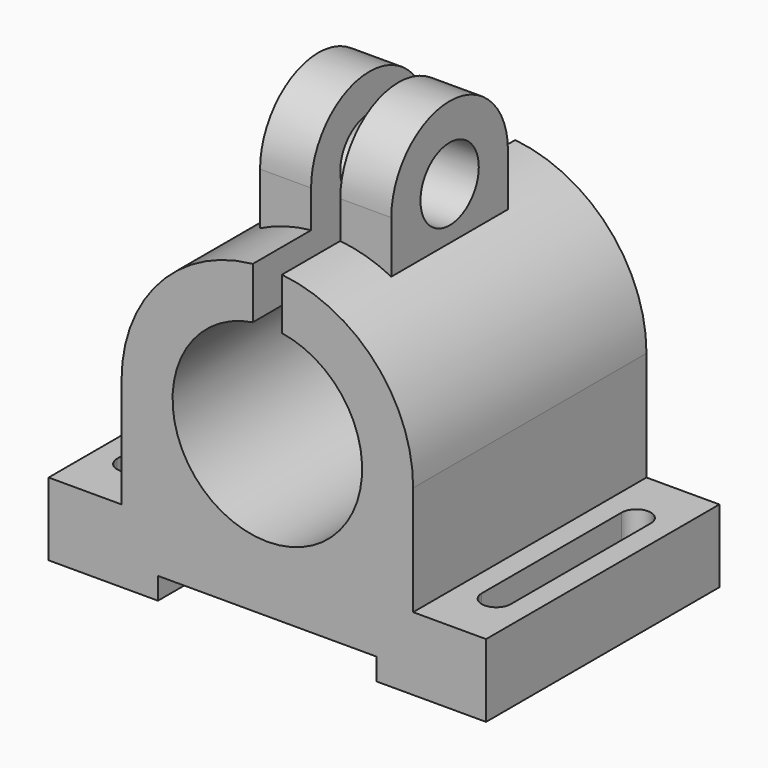
from build123d import *

# Parameters (mm, degrees)
SKETCH_W        = 60
SKETCH_H        = 40
PAD_DEPTH       = 10
PAD001_DEPTH    = 20
PAD002_DEPTH    = 9
SKETCH003_R     = 5
POCKET_DEPTH    = 39.001
POCKET001_DEPTH = 40.001
POCKET002_DEPTH = 197.61763
SKETCH006_W     = 30
SKETCH006_H     = 3
POCKET003_DEPTH = 40.001


with BuildPart() as part:
    # Sketch → Pad (new body)
    with BuildSketch(Plane.XY):
        Rectangle(SKETCH_W, SKETCH_H)
    extrude(amount=PAD_DEPTH)

    # Sketch001 → Pad001 (join, symmetric)
    with BuildSketch(Plane.XZ):
        with BuildLine():
            Line((20, 25), (20, 10))
            Line((20, 10), (-20, 10))
            Line((-20, 10), (-20, 25))
            ThreePointArc((20, 25), (0, 45), (-20, 25))
        make_face()
    extrude(amount=PAD001_DEPTH, both=True)

    # Sketch002 → Pad002 (join, symmetric)
    with BuildSketch(Plane.YZ):
        with BuildLine():
            Line((-10, 23), (-10, 50))
            ThreePointArc((10, 50), (0, 60), (-10, 50))
            Line((10, 50), (10, 23))
            Line((10, 23), (-10, 23))
        make_face()
    extrude(amount=PAD002_DEPTH, both=True)

    # Sketch003 (on Face15 of Pad002) → Pocket (cut, through all)
    with BuildSketch(Plane.YZ.offset(9)):
        with Locations((0, 50)):
            Circle(SKETCH003_R)
    extrude(amount=-POCKET_DEPTH, mode=Mode.SUBTRACT)

    # Sketch004 (on Face12 of Pocket) → Pocket001 (cut, through all)
    with BuildSketch(Plane.XZ.offset(20)):
        with BuildLine():
            ThreePointArc((-2, 37.845233), (0, 12), (2, 37.845233))
            Line((2, 70), (2, 37.845233))
            Line((-2, 70), (2, 70))
            Line((-2, 37.845233), (-2, 70))
        make_face()
    extrude(amount=-POCKET001_DEPTH, mode=Mode.SUBTRACT)

    # Sketch005 (on Face7 of Pocket001) → Pocket002 (cut, through all)
    with BuildSketch(Plane.XY.offset(10)):
        with BuildLine():
            ThreePointArc((27, 12), (25, 14), (23, 12))
            Line((23, 12), (23, -12))
            ThreePointArc((23, -12), (25, -14), (27, -12))
            Line((27, 12), (27, -12))
        make_face()
    pocket002 = extrude(amount=-POCKET002_DEPTH, mode=Mode.SUBTRACT)

    # Mirrored: Pocket002 across Sketch005 V_Axis
    add(pocket002.mirror(Plane(origin=(0, 0, 10), x_dir=(0, 0, 1), z_dir=(1, 0, 0))), mode=Mode.SUBTRACT)

    # Sketch006 (on Face8 of Mirrored) → Pocket003 (cut, through all)
    with BuildSketch(Plane.XZ.offset(20)):
        with Locations((0, 1.5)):
            Rectangle(SKETCH006_W, SKETCH006_H)
    extrude(amount=-POCKET003_DEPTH, mode=Mode.SUBTRACT)


solid = part.part
